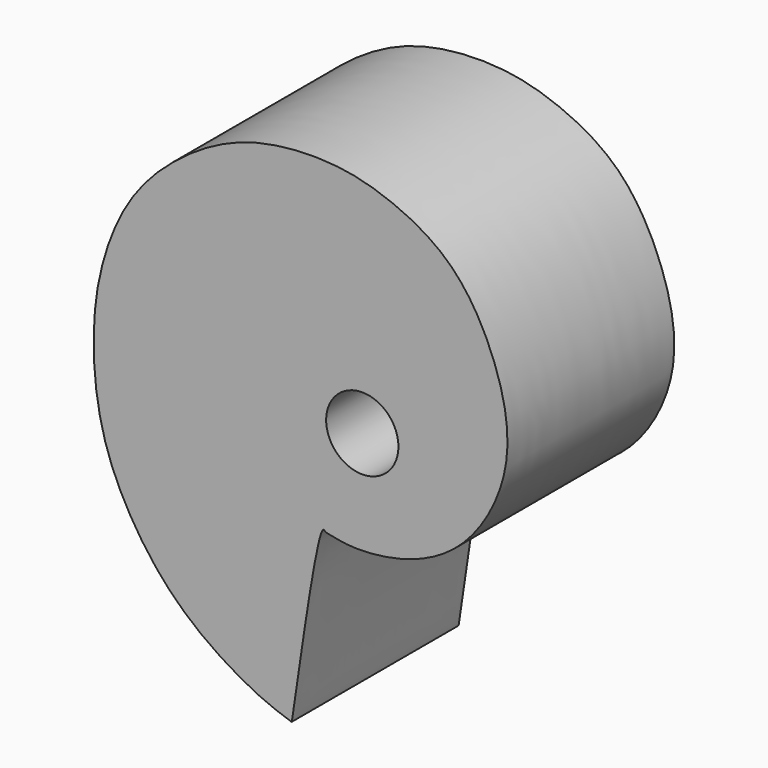
from build123d import *

# Parameters (mm, degrees)
F0_R     = 3.302
F1_DEPTH = 19.05


with BuildPart() as f1:
    # F0 (on Front) → F1 (new body)
    with BuildSketch(Plane.XZ):
        with BuildLine():
            add(Edge.make_bspline(
                [(1.2624944295, -24.1829699402), (0.5388161662, -24.8598036924), (-1.5102066252, -40.5773614344), (-1.6292706333, -40.5698264805), (-3.8499625507, -39.8319152844), (-7.721242266, -37.8713991907), (-13.6075708525, -33.5187525351), (-19.0316947984, -24.7335068129), (-19.9462376818, -16.0369691116), (-19.2531839984, -9.758320297), (-16.9743491229, -3.74809778), (-12.9789572422, 0.9067560646), (-6.2929960365, 5.2589119785), (1.7313744643, 5.8790209842), (7.2281082663, 4.5689350763), (13.4545357233, 1.3792838335), (17.4426665952, -5.7393961556), (18.9277348553, -13.8588106532), (14.4412561336, -21.9602271236), (8.2221933991, -24.5796004147), (3.9421445888, -24.7854168158), (2.4697880183, -24.4809406076), (1.5335478239, -24.31075227), (1.4511916859, -24.2677908997), (1.3403482346, -24.1101556999), (1.2624944295, -24.1829699402)],
                knots=[0, 0, 0, 0, 0.0803047111, 0.0851860076, 0.1124519427, 0.1545312541, 0.2076583242, 0.2707491396, 0.3286365219, 0.3779367774, 0.4269446795, 0.4754587023, 0.5306744159, 0.5857637051, 0.6324546945, 0.683241406, 0.7387141282, 0.7945460274, 0.8523434743, 0.9030556329, 0.942828789, 0.9671853648, 0.9850078655, 0.991360764, 1, 1, 1, 1], degree=3))
        make_face()
        with Locations((4.8539172362, -15.255956356)):
            Circle(F0_R, mode=Mode.SUBTRACT)
    extrude(amount=F1_DEPTH)


solid = f1.part
